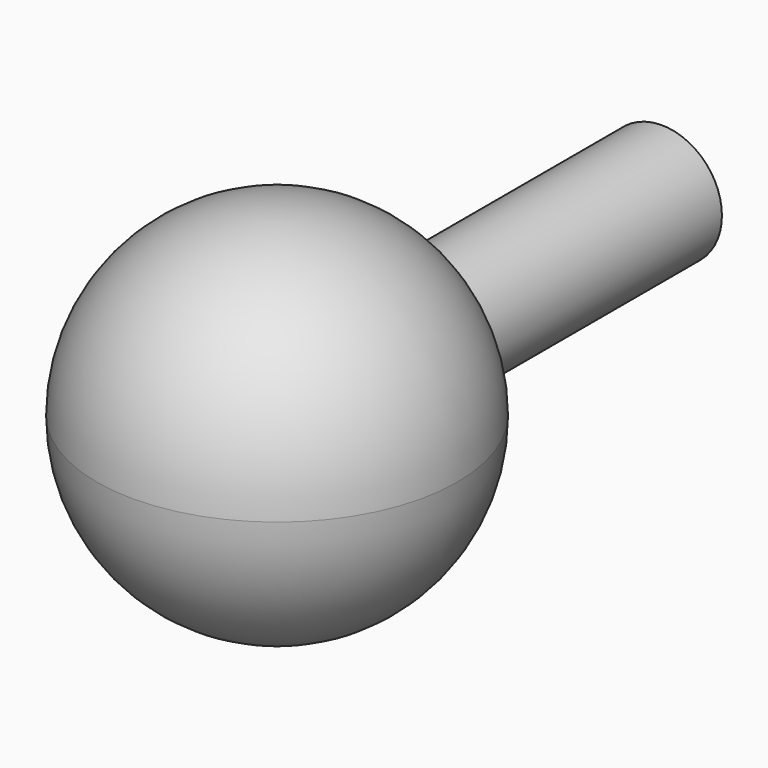
from build123d import *

# Parameters (mm, degrees)
F0_R     = 12.7
F1_DEPTH = 101.6


with BuildPart() as f1:
    # F0 (on Front) → F1 (new body)
    with BuildSketch(Plane.XZ):
        Circle(F0_R)
    extrude(amount=F1_DEPTH)

    # F2 (on face) → F3 (revolve)
    with BuildSketch(Plane.XZ.offset(101.6)):
        with BuildLine():
            ThreePointArc((0, -38.1), (26.9407683632, -26.9407683632), (38.1, 0))
            ThreePointArc((38.1, 0), (26.9407683632, 26.9407683632), (0, 38.1))
            Line((0, 38.1), (0, 12.7))
            ThreePointArc((0, 12.7), (8.9802561211, 8.9802561211), (12.7, 0))
            ThreePointArc((12.7, 0), (8.9802561211, -8.9802561211), (0, -12.7))
            Line((0, -12.7), (0, -38.1))
        make_face()
        with BuildLine():
            Line((0, -12.7), (0, 12.7))
            ThreePointArc((0, 12.7), (-12.7, 0), (0, -12.7))
        make_face()
        with BuildLine():
            ThreePointArc((12.7, 0), (8.9802561211, 8.9802561211), (0, 12.7))
            Line((0, 12.7), (0, -12.7))
            ThreePointArc((0, -12.7), (8.9802561211, -8.9802561211), (12.7, 0))
        make_face()
    revolve(axis=Axis((0, -101.6, 0), (0, 0, -1)))


solid = f1.part
